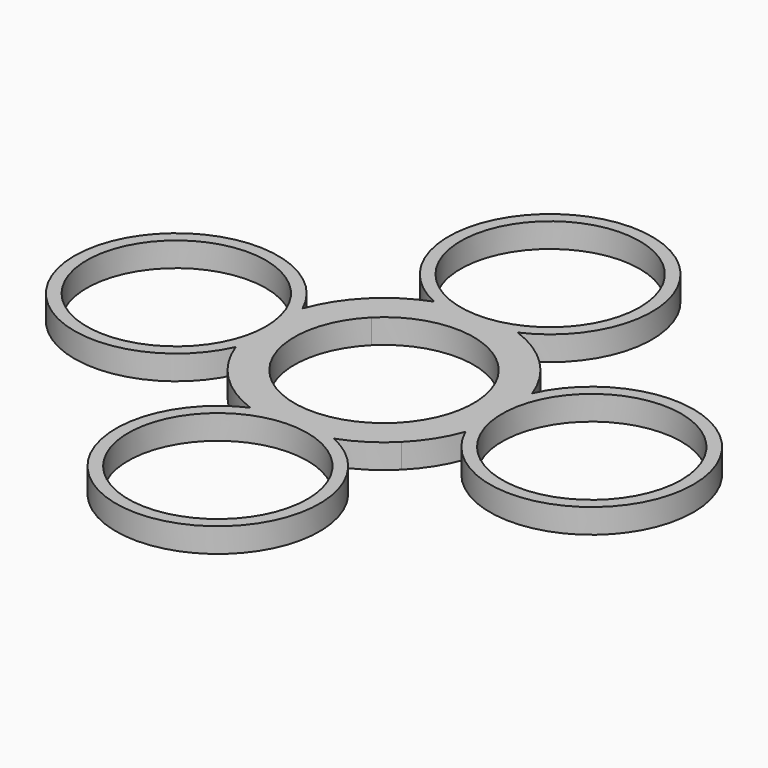
from build123d import *

# Parameters (mm, degrees)
F0_R     = 11
F1_DEPTH = 3


with BuildPart() as f1:
    # F0 (on Top) → F1 (new body)
    with BuildSketch(Plane.XY):
        with BuildLine():
            ThreePointArc((5.123016, 14.098039), (0, 38), (-5.123016, 14.098039))
            ThreePointArc((-5.123016, 14.098039), (-8.056224, 12.652954), (-10.606602, 10.606602))
            ThreePointArc((-10.606602, 10.606602), (-12.652954, 8.056224), (-14.098039, 5.123016))
            ThreePointArc((-14.098039, 5.123016), (-38, 0), (-14.098039, -5.123016))
            ThreePointArc((-14.098039, -5.123016), (-12.652954, -8.056224), (-10.606602, -10.606602))
            ThreePointArc((-10.606602, -10.606602), (-8.056224, -12.652954), (-5.123016, -14.098039))
            ThreePointArc((-5.123016, -14.098039), (0, -38), (5.123016, -14.098039))
            ThreePointArc((5.123016, -14.098039), (8.056224, -12.652954), (10.606602, -10.606602))
            ThreePointArc((10.606602, -10.606602), (12.652954, -8.056224), (14.098039, -5.123016))
            ThreePointArc((14.098039, -5.123016), (38, 0), (14.098039, 5.123016))
            ThreePointArc((14.098039, 5.123016), (12.652954, 8.056224), (10.606602, 10.606602))
            ThreePointArc((10.606602, 10.606602), (8.056224, 12.652954), (5.123016, 14.098039))
        make_face()
        with Locations((0, -25.5)):
            Circle(F0_R, mode=Mode.SUBTRACT)
        with Locations((-25.5, 0)):
            Circle(F0_R, mode=Mode.SUBTRACT)
        with BuildLine():
            ThreePointArc((-7.778175, 7.778175), (0, 11), (7.778175, 7.778175))
            ThreePointArc((7.778175, 7.778175), (11, 0), (7.778175, -7.778175))
            ThreePointArc((7.778175, -7.778175), (0, -11), (-7.778175, -7.778175))
            ThreePointArc((-7.778175, -7.778175), (-11, 0), (-7.778175, 7.778175))
        make_face(mode=Mode.SUBTRACT)
        with Locations((25.5, 0)):
            Circle(F0_R, mode=Mode.SUBTRACT)
        with Locations((0, 25.5)):
            Circle(F0_R, mode=Mode.SUBTRACT)
    extrude(amount=F1_DEPTH)


solid = f1.part
